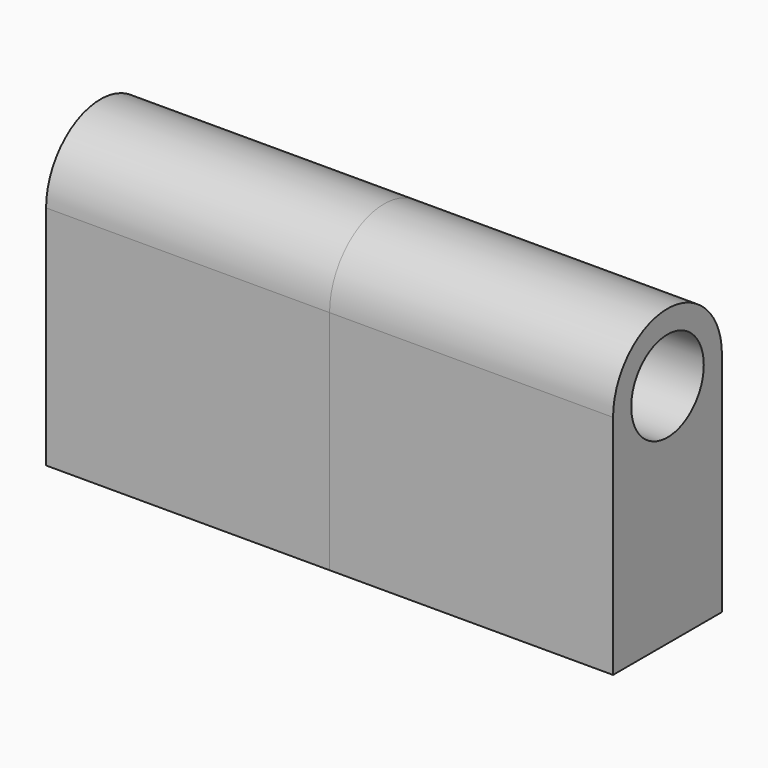
from build123d import *

# Parameters (mm, degrees)
F0_R     = 4
F1_DEPTH = 25
F2_DEPTH = 12
F3_R     = 4
F4_DEPTH = 12
F5_R     = 4
F6_DEPTH = 10


with BuildPart() as f1:
    # F0 (on Right) → F1 (new body)
    with BuildSketch(Plane.YZ):
        with BuildLine():
            Line((6, -14.4852813742), (-4.2426406871, -4.2426406871))
            ThreePointArc((-4.2426406871, -4.2426406871), (-5.5432771951, -2.2961005942), (-6, 0))
            Line((-6, 0), (-6, -20))
            Line((-6, -20), (6, -20))
            Line((6, -20), (6, -14.4852813742))
        make_face()
        with BuildLine():
            Line((6, -14.4852813742), (6, 0))
            ThreePointArc((6, 0), (2.2961005942, -5.5432771951), (-4.2426406871, -4.2426406871))
            Line((-4.2426406871, -4.2426406871), (6, -14.4852813742))
        make_face()
        with BuildLine():
            ThreePointArc((-4.2426406871, -4.2426406871), (2.2961005942, -5.5432771951), (6, 0))
            ThreePointArc((6, 0), (5.5432771951, 2.2961005942), (4.2426406871, 4.2426406871))
            ThreePointArc((4.2426406871, 4.2426406871), (-2.2961005942, 5.5432771951), (-6, 0))
            ThreePointArc((-6, 0), (-5.5432771951, -2.2961005942), (-4.2426406871, -4.2426406871))
        make_face()
        Circle(F0_R, mode=Mode.SUBTRACT)
    extrude(amount=F1_DEPTH)

    # F0 (on Right) → F2 (join)
    with BuildSketch(Plane.YZ):
        with BuildLine():
            ThreePointArc((4.2426406871, 4.2426406871), (5.5432771951, 2.2961005942), (6, 0))
            Line((6, 0), (6, -14.4852813742))
            Line((6, -14.4852813742), (9.8994949366, -18.3847763109))
            Line((9.8994949366, -18.3847763109), (18.3847763109, -9.8994949366))
            Line((18.3847763109, -9.8994949366), (4.2426406871, 4.2426406871))
        make_face()
    extrude(amount=F2_DEPTH)

    # F3 (on face) → F4 (cut)
    with BuildSketch(Plane(origin=(0, 0, -20), x_dir=(1, 0, 0), z_dir=(0, 0, -1))):
        with Locations((19, 0)):
            Circle(F3_R)
        with Locations((6, 0)):
            Circle(F3_R)
    extrude(amount=-F4_DEPTH, mode=Mode.SUBTRACT)

    # F5 (on face) → F6 (cut)
    with BuildSketch(Plane(origin=(0, 14.1421356237, -14.1421356237), x_dir=(-1, 0, 0), z_dir=(0, 0.7071067812, -0.7071067812))):
        with Locations((-6, 0)):
            Circle(F5_R)
    extrude(amount=-F6_DEPTH, mode=Mode.SUBTRACT)


with BuildPart() as f7_1:
    # F7: instance of F1
    add(f1.part.mirror(Plane.YZ))


solid = Compound([f1.part, f7_1.part])
